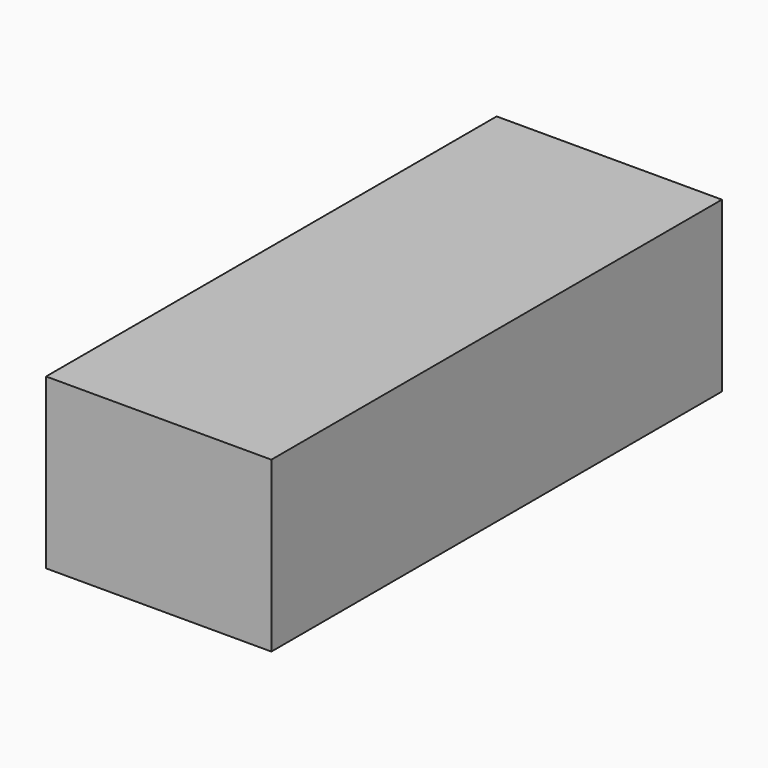
from build123d import *

# Parameters (mm, degrees)
SKETCH_W  = 20
SKETCH_H  = 50
PAD_DEPTH = 15


with BuildPart() as part:
    # Sketch → Pad (new body)
    with BuildSketch(Plane.XY):
        with Locations((10, 25)):
            Rectangle(SKETCH_W, SKETCH_H)
    extrude(amount=PAD_DEPTH)


solid = part.part
